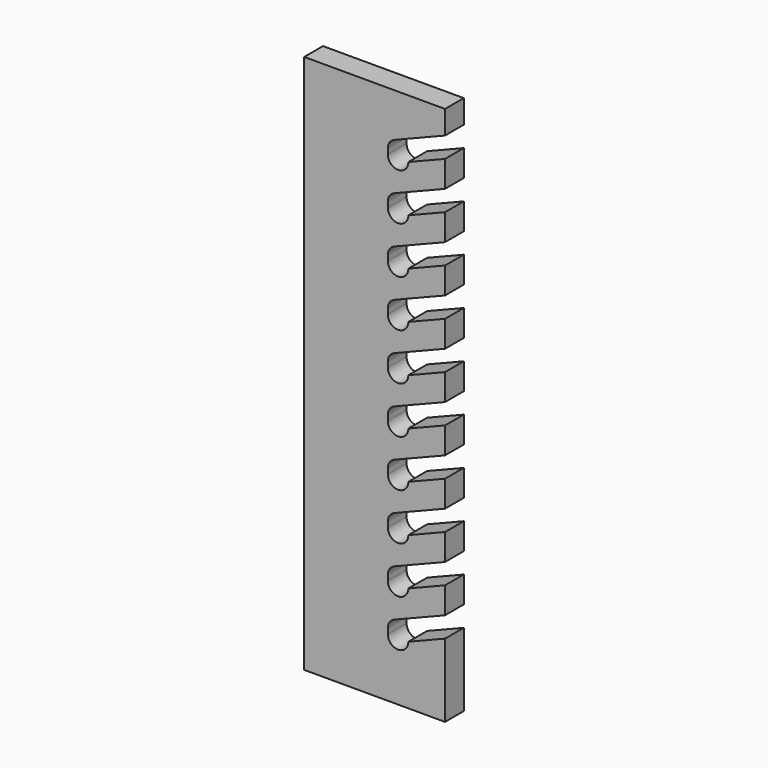
from build123d import *

# Parameters (mm, degrees)
F1_DEPTH = 25.4


with BuildPart() as f1:
    # F0 (on Front) → F1 (new body)
    with BuildSketch(Plane.XZ):
        with BuildLine():
            Line((76.2, 266.7), (76.2, 292.1))
            Line((76.2, 292.1), (-76.2, 292.1))
            Line((-76.2, 292.1), (-76.2, -292.1))
            Line((-76.2, -292.1), (76.2, -292.1))
            Line((76.2, -292.1), (76.2, -212.725))
            Line((76.2, -212.725), (36.5125, -228.6))
            ThreePointArc((36.5125, -228.6), (25.4, -239.7125), (14.2875, -228.6))
            Line((14.2875, -228.6), (14.2875, -222.788529))
            ThreePointArc((14.2875, -222.788529), (16.198103, -216.558541), (21.272921, -212.470832))
            Line((21.272921, -212.470832), (76.2, -190.5))
            Line((76.2, -190.5), (76.2, -161.925))
            Line((76.2, -161.925), (36.5125, -177.8))
            ThreePointArc((36.5125, -177.8), (25.4, -188.9125), (14.2875, -177.8))
            Line((14.2875, -177.8), (14.2875, -171.988529))
            ThreePointArc((14.2875, -171.988529), (16.198103, -165.758541), (21.272921, -161.670832))
            Line((21.272921, -161.670832), (76.2, -139.7))
            Line((76.2, -139.7), (76.2, -111.125))
            Line((76.2, -111.125), (36.5125, -127))
            ThreePointArc((36.5125, -127), (25.4, -138.1125), (14.2875, -127))
            Line((14.2875, -127), (14.2875, -121.188529))
            ThreePointArc((14.2875, -121.188529), (16.198103, -114.958541), (21.272921, -110.870832))
            Line((21.272921, -110.870832), (76.2, -88.9))
            Line((76.2, -88.9), (76.2, -60.325))
            Line((76.2, -60.325), (36.5125, -76.2))
            ThreePointArc((36.5125, -76.2), (25.4, -87.3125), (14.2875, -76.2))
            Line((14.2875, -76.2), (14.2875, -70.388529))
            ThreePointArc((14.2875, -70.388529), (16.198103, -64.158541), (21.272921, -60.070832))
            Line((21.272921, -60.070832), (76.2, -38.1))
            Line((76.2, -38.1), (76.2, -9.525))
            Line((76.2, -9.525), (36.5125, -25.4))
            ThreePointArc((36.5125, -25.4), (25.4, -36.5125), (14.2875, -25.4))
            Line((14.2875, -25.4), (14.2875, -19.588529))
            ThreePointArc((14.2875, -19.588529), (16.198103, -13.358541), (21.272921, -9.270832))
            Line((21.272921, -9.270832), (76.2, 12.7))
            Line((76.2, 12.7), (76.2, 41.275))
            Line((76.2, 41.275), (36.5125, 25.4))
            ThreePointArc((36.5125, 25.4), (25.4, 14.2875), (14.2875, 25.4))
            Line((14.2875, 25.4), (14.2875, 31.211471))
            ThreePointArc((14.2875, 31.211471), (16.198103, 37.441459), (21.272921, 41.529168))
            Line((21.272921, 41.529168), (76.2, 63.5))
            Line((76.2, 63.5), (76.2, 92.075))
            Line((76.2, 92.075), (36.5125, 76.2))
            ThreePointArc((36.5125, 76.2), (25.4, 65.0875), (14.2875, 76.2))
            Line((14.2875, 76.2), (14.2875, 82.011471))
            ThreePointArc((14.2875, 82.011471), (16.198103, 88.241459), (21.272921, 92.329168))
            Line((21.272921, 92.329168), (76.2, 114.3))
            Line((76.2, 114.3), (76.2, 142.875))
            Line((76.2, 142.875), (36.5125, 127))
            ThreePointArc((36.5125, 127), (25.4, 115.8875), (14.2875, 127))
            Line((14.2875, 127), (14.2875, 132.811471))
            ThreePointArc((14.2875, 132.811471), (16.198103, 139.041459), (21.272921, 143.129168))
            Line((21.272921, 143.129168), (76.2, 165.1))
            Line((76.2, 165.1), (76.2, 193.675))
            Line((76.2, 193.675), (36.5125, 177.8))
            ThreePointArc((36.5125, 177.8), (25.4, 166.6875), (14.2875, 177.8))
            Line((14.2875, 177.8), (14.2875, 183.611471))
            ThreePointArc((14.2875, 183.611471), (16.198103, 189.841459), (21.272921, 193.929168))
            Line((21.272921, 193.929168), (76.2, 215.9))
            Line((76.2, 215.9), (76.2, 244.475))
            Line((76.2, 244.475), (36.5125, 228.6))
            ThreePointArc((36.5125, 228.6), (25.4, 217.4875), (14.2875, 228.6))
            Line((14.2875, 228.6), (14.2875, 234.411471))
            ThreePointArc((14.2875, 234.411471), (16.198103, 240.641459), (21.272921, 244.729168))
            Line((21.272921, 244.729168), (76.2, 266.7))
        make_face()
    extrude(amount=F1_DEPTH)


solid = f1.part
